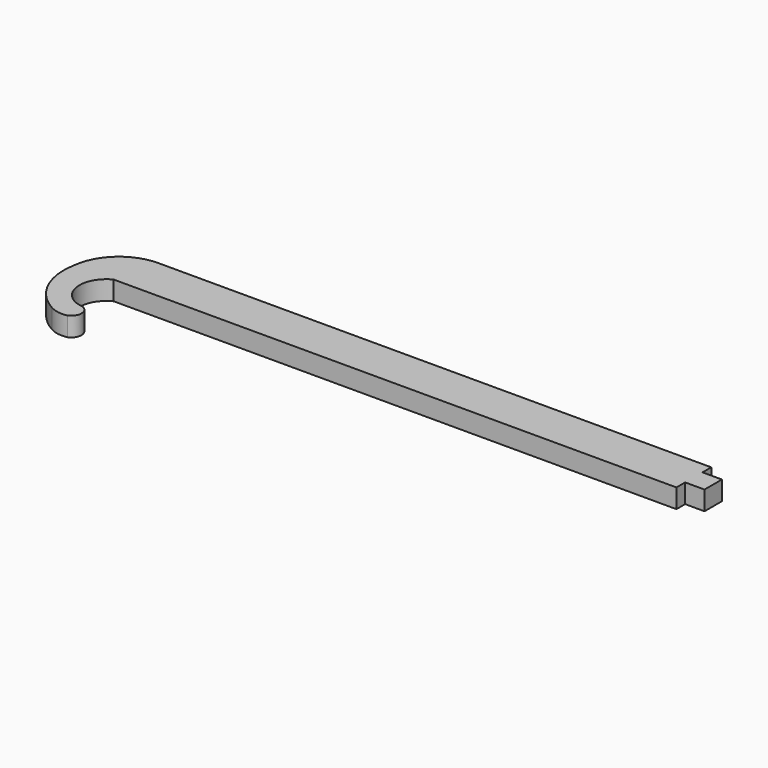
from build123d import *

# Parameters (mm, degrees)
F1_DEPTH = 4.4


with BuildPart() as f1:
    # F0 (on Top) → F1 (new body)
    with BuildSketch(Plane.XY):
        with BuildLine():
            Line((0, 16.202291), (0, 18.702291))
            Line((0, 18.702291), (-127, 18.702291))
            ThreePointArc((-127, 18.702291), (-134.518458, 15.839941), (-138.229819, 8.702291))
            ThreePointArc((-138.229819, 8.702291), (-137.150122, -0.170458), (-131.082356, -6.73351))
            ThreePointArc((-131.082356, -6.73351), (-129.100669, -7.431448), (-127, -7.394162))
            ThreePointArc((-127, -7.394162), (-125.530168, -5.194185), (-127, -2.994207))
            ThreePointArc((-127, -2.994207), (-132.56195, 2.003878), (-129.238188, 8.702291))
            Line((-129.238188, 8.702291), (-122.605346, 8.702291))
            Line((-122.605346, 8.702291), (0, 8.702291))
            Line((0, 8.702291), (0, 11.202291))
            Line((0, 11.202291), (4.45, 11.202291))
            Line((4.45, 11.202291), (4.45, 16.202291))
            Line((4.45, 16.202291), (0, 16.202291))
        make_face()
    extrude(amount=F1_DEPTH)


solid = f1.part
